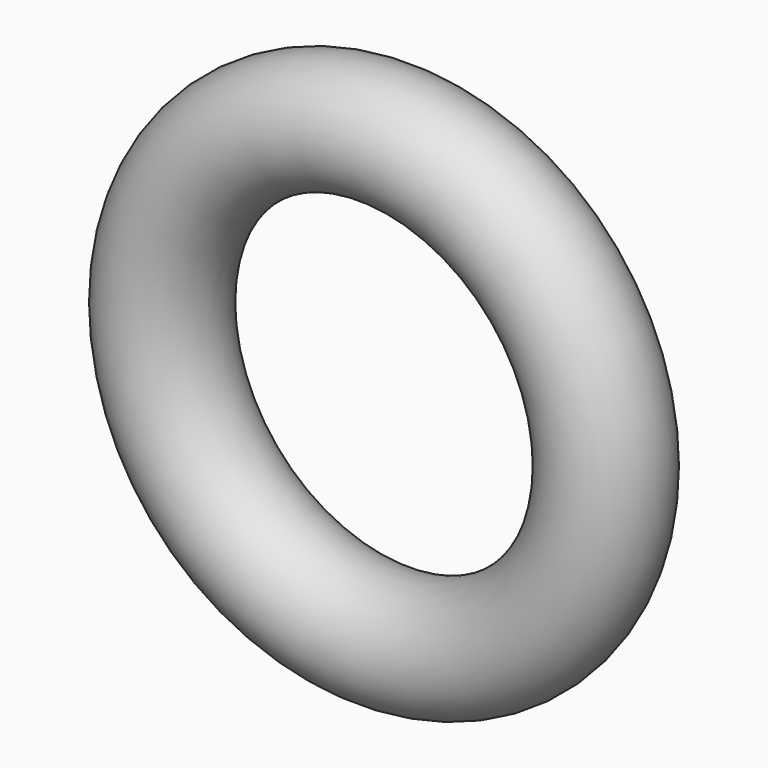
from build123d import *

# Parameters (mm, degrees)
F0_R = 65.400319


with BuildPart() as f2:
    # F0 (on Top) → F2 (revolve)
    with BuildSketch(Plane.XY):
        Circle(F0_R)
    revolve(axis=Axis((254, -6.218478, 0), (0, -1, 0)))


solid = f2.part
